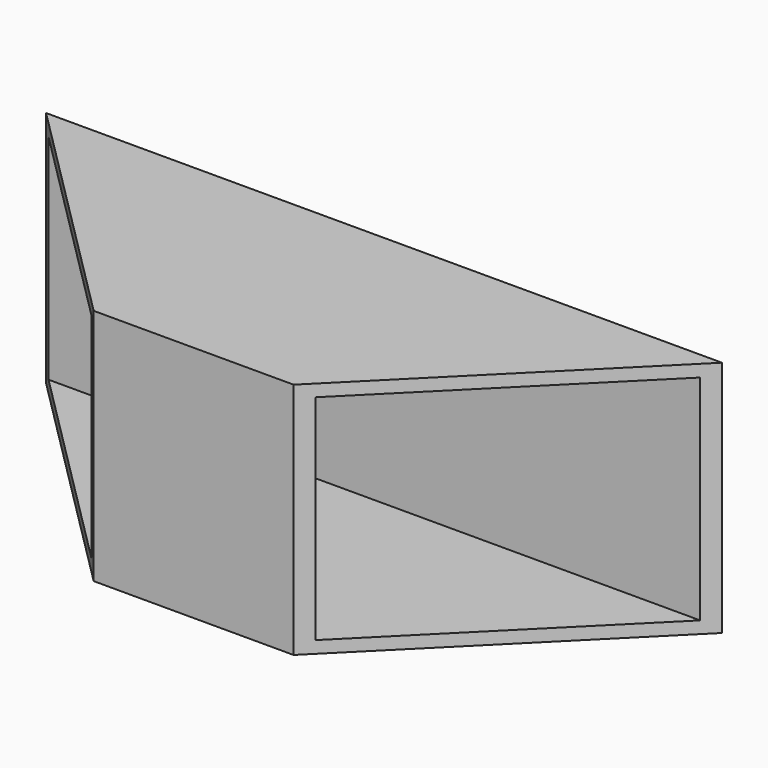
from build123d import *

# Parameters (mm, degrees)
F0_W     = 42
F0_H     = 50
F1_DEPTH = 50
F2_T     = -2.54


with BuildPart() as f1:
    # F0 (on Top) → F1 (new body)
    with BuildSketch(Plane.XY):
        Polygon((-100, 19.444444), (-50, -30.555556), (-50, 19.444444), align=None)
        with Locations((-29, -5.555556)):
            Rectangle(F0_W, F0_H)
        Polygon((-8, 19.444444), (-8, -30.555556), (42, 19.444444), align=None)
    extrude(amount=F1_DEPTH)

    # F2
    f2_openings = [f1.faces().sort_by_distance(p)[0] for p in [
        (17, -5.555556, 25),
        (-75, -5.555556, 25),
    ]]
    offset(amount=F2_T, openings=f2_openings)


solid = f1.part
